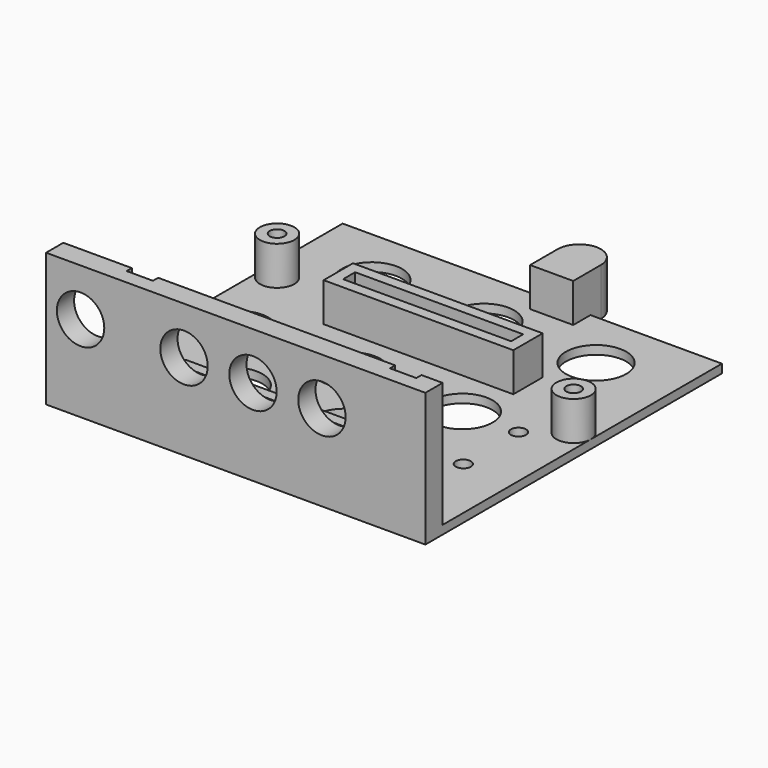
from build123d import *

# Parameters (mm, degrees)
PAD_DEPTH       = 2
SKETCH001_W     = 50
SKETCH001_H     = 3
SKETCH001_W_2   = 44
SKETCH001_H_2   = 8.5
SKETCH001_W_3   = 39
SKETCH001_H_3   = 3.5
SKETCH001_R     = 4
PAD001_DEPTH    = 9
SKETCH003_R     = 1.75
SKETCH003_R_2   = 7
SKETCH003_R_3   = 4
SKETCH003_W     = 6
SKETCH003_H     = 3
POCKET_DEPTH    = 5
PAD002_DEPTH    = 20
SKETCH006_R     = 5.5
POCKET001_DEPTH = 5
SKETCH004_R     = 1.7
POCKET002_DEPTH = 11


with BuildPart() as part:
    # Sketch → Pad (new body)
    with BuildSketch(Plane.XY):
        with BuildLine():
            Line((0, 0), (0, 86))
            Line((0, 86), (47.5, 86))
            Line((47.5, 86), (47.5, 89))
            ThreePointArc((57.5, 89), (52.5, 94), (47.5, 89))
            Line((57.5, 89), (57.5, 86))
            Line((57.5, 86), (88, 86))
            Line((88, 86), (88, 0))
            Line((88, 0), (0, 0))
        make_face()
    extrude(amount=PAD_DEPTH)

    # Sketch001 → Pad001 (new body)
    with BuildSketch(Plane.XY.offset(2)):
        Polygon((0, 0), (0, 5), (15.9, 5), (15.9, 3.5), (22, 3.5), (22, 13), (77, 13), (77, 3.5), (83.1, 3.5), (83.1, 5), (88, 5), (88, 0), align=None)
        with Locations((49.5, 9)):
            Rectangle(SKETCH001_W, SKETCH001_H, mode=Mode.SUBTRACT)
        with Locations((44, 57.25)):
            Rectangle(SKETCH001_W_2, SKETCH001_H_2)
        with Locations((44, 57.25)):
            Rectangle(SKETCH001_W_3, SKETCH001_H_3, mode=Mode.SUBTRACT)
        with BuildLine():
            Line((47.5, 89), (47.5, 81))
            Line((47.5, 81), (57.5, 81))
            Line((57.5, 81), (57.5, 89))
            ThreePointArc((57.5, 89), (52.5, 94), (47.5, 89))
        make_face()
        with Locations((4, 62)):
            Circle(SKETCH001_R)
        with Locations((84, 48)):
            Circle(SKETCH001_R)
    extrude(amount=PAD001_DEPTH)

    # Sketch003 → Pocket (cut)
    with BuildSketch(Plane.XY.offset(2)):
        with Locations((76, 42)):
            Circle(SKETCH003_R)
        with Locations((76, 26)):
            Circle(SKETCH003_R)
        with Locations((37, 42)):
            Circle(SKETCH003_R_2)
        with Locations((24, 24)):
            Circle(SKETCH003_R_2)
        with Locations((63, 42)):
            Circle(SKETCH003_R_2)
        with Locations((50, 24)):
            Circle(SKETCH003_R_2)
        with Locations((70, 72)):
            Circle(SKETCH003_R_2)
        with Locations((44, 72)):
            Circle(SKETCH003_R_2)
        with Locations((18, 72)):
            Circle(SKETCH003_R_2)
        with Locations((11, 42)):
            Circle(SKETCH003_R_2)
        with Locations((11, 17)):
            Circle(SKETCH003_R_3)
        with Locations((80.1, 5)):
            Rectangle(SKETCH003_W, SKETCH003_H)
        with Locations((18.9, 5)):
            Rectangle(SKETCH003_W, SKETCH003_H)
    extrude(amount=-POCKET_DEPTH, mode=Mode.SUBTRACT)

    # Sketch005 → Pad002 (new body)
    with BuildSketch(Plane.XY.offset(11)):
        Polygon((0, 0), (0, 5), (15.9, 5), (15.9, 3.5), (22, 3.5), (22, 5), (77, 5), (77, 3.5), (83.1, 3.5), (83.1, 5), (88, 5), (88, 0), align=None)
    extrude(amount=PAD002_DEPTH)

    # Sketch006 → Pocket001 (cut)
    with BuildSketch(Plane.XZ):
        with Locations((8, 20)):
            Circle(SKETCH006_R)
        with Locations((32, 20)):
            Circle(SKETCH006_R)
        with Locations((48, 20)):
            Circle(SKETCH006_R)
        with Locations((64, 20)):
            Circle(SKETCH006_R)
    extrude(amount=-POCKET001_DEPTH, mode=Mode.SUBTRACT)

    # Sketch004 → Pocket002 (cut)
    with BuildSketch(Plane.XY.offset(11)):
        with Locations((4, 62)):
            Circle(SKETCH004_R)
        with Locations((84, 48)):
            Circle(SKETCH004_R)
    extrude(amount=-POCKET002_DEPTH, mode=Mode.SUBTRACT)


solid = part.part
